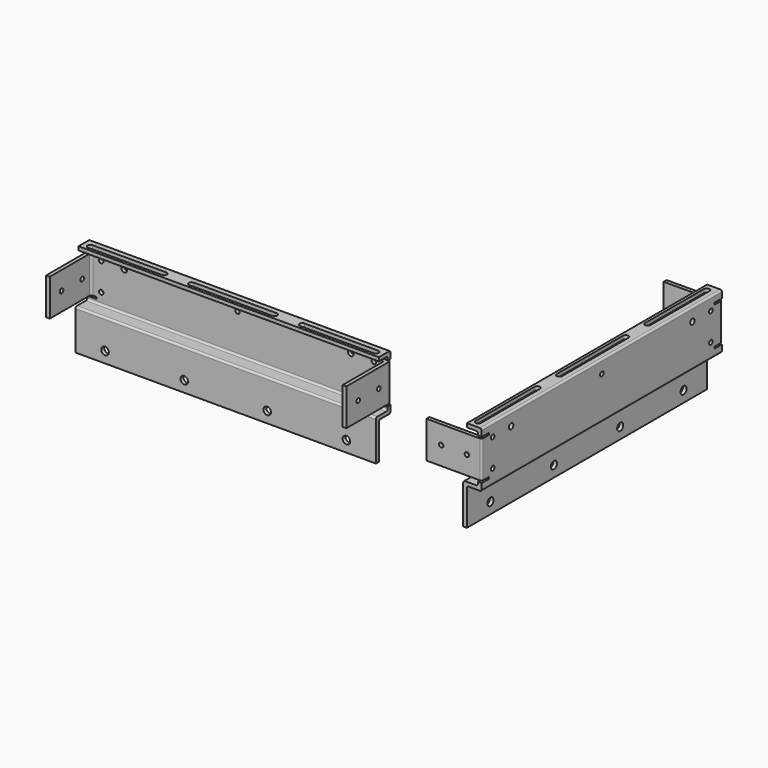
from build123d import *

# Parameters (mm, degrees)
F1_DEPTH  = 163
F2_W      = 2
F2_H      = 20
F3_DEPTH  = 28
F5_DEPTH  = 2
F6_R      = 2.05
F6_R_2    = 1.2
F6_R_3    = 1.5
F7_DEPTH  = 25
F8_R      = 1.2
F9_DEPTH  = 163.001
F10_R     = 1
F11_R     = 1
F14_ANGLE = 90


with BuildPart() as f1:
    # F0 (on Front) → F1 (new body)
    with BuildSketch(Plane.XZ):
        Polygon((-12, 60), (-20, 60), (-20, 30), (-12, 30), (-12, 10), (-10, 10), (-10, 32), (-18, 32), (-18, 58), (-12, 58), align=None)
    extrude(amount=F1_DEPTH)

    # F2 (on face) → F3 (join)
    with BuildSketch(Plane.YZ.offset(-18)):
        with Locations((-1, 45)):
            Rectangle(F2_W, F2_H)
        with Locations((-162, 45)):
            Rectangle(F2_W, F2_H)
    extrude(amount=F3_DEPTH)

    # F4 (on face) → F5 (cut)
    with BuildSketch(Plane.XY.offset(60)):
        with BuildLine():
            ThreePointArc((-16.5, -104), (-15, -105.5), (-13.5, -104))
            Line((-13.5, -104), (-13.5, -59))
            ThreePointArc((-13.5, -59), (-15, -57.5), (-16.5, -59))
            Line((-16.5, -59), (-16.5, -104))
        make_face()
        with BuildLine():
            ThreePointArc((-16.5, -44), (-15, -45.5), (-13.5, -44))
            Line((-13.5, -44), (-13.5, -4))
            ThreePointArc((-13.5, -4), (-15, -2.5), (-16.5, -4))
            Line((-16.5, -4), (-16.5, -44))
        make_face()
        with BuildLine():
            ThreePointArc((-13.5, -119), (-15, -117.5), (-16.5, -119))
            Line((-16.5, -119), (-16.5, -159))
            ThreePointArc((-16.5, -159), (-15, -160.5), (-13.5, -159))
            Line((-13.5, -159), (-13.5, -119))
        make_face()
    extrude(amount=-F5_DEPTH, mode=Mode.SUBTRACT)

    # F6 (on face) → F7 (cut)
    with BuildSketch(Plane.YZ.offset(-10)):
        with Locations((-16, 16)):
            Circle(F6_R)
        with Locations((-104, 16)):
            Circle(F6_R)
        with Locations((-7.5, 53)):
            Circle(F6_R_2)
        with Locations((-81.5, 53)):
            Circle(F6_R_2)
        with Locations((-155.5, 53)):
            Circle(F6_R_2)
        with Locations((-147, 16)):
            Circle(F6_R)
        with Locations((-59, 16)):
            Circle(F6_R)
        Polygon((-158, 56), (-163, 56), (-163, 55), (-161, 55), (-158, 55), align=None)
        Polygon((-161, 35), (-163, 35), (-163, 34), (-158, 34), (-158, 35), align=None)
        Polygon((0, 55), (0, 56), (-5, 56), (-5, 55), (-2, 55), align=None)
        Polygon((0, 34), (0, 35), (-2, 35), (-5, 35), (-5, 34), align=None)
        with Locations((-7.5, 38)):
            Circle(F6_R_2)
        with Locations((-155.5, 38)):
            Circle(F6_R_2)
        with Locations((-20, 53)):
            Circle(F6_R_3)
        with Locations((-143, 53)):
            Circle(F6_R_3)
    extrude(amount=-F7_DEPTH, mode=Mode.SUBTRACT)

    # F8 (on face) → F9 (cut, through all)
    with BuildSketch(Plane.XZ.offset(163)):
        with Locations((-12, 45)):
            Circle(F8_R)
        with Locations((2, 45)):
            Circle(F8_R)
    extrude(amount=-F9_DEPTH, mode=Mode.SUBTRACT)

    # F10
    f10_edges = [f1.edges().sort_by_distance(p)[0] for p in [
        (-20, -81.5, 60),
        (-18, -81.5, 58),
        (-18, -81.5, 32),
        (-10, -81.5, 32),
        (-20, -81.5, 30),
        (-12, -81.5, 30),
    ]]
    fillet(f10_edges, radius=F10_R)

    # F11
    f11_edges = [f1.edges().sort_by_distance(p)[0] for p in [
        (-18, -161, 45),
        (-20, -163, 45),
        (-18, -2, 45),
        (-20, 0, 45),
    ]]
    fillet(f11_edges, radius=F11_R)


with BuildPart() as f13_1:
    # F13: instance of F1
    add(f1.part.mirror(Plane.YZ.offset(113)))


with BuildPart() as f1_1:
    # F14: moved
    add(f1.part.rotate(Axis((10, -161, 45), (0, 0, -1)), F14_ANGLE))


solid = Compound([f13_1.part, f1_1.part])
